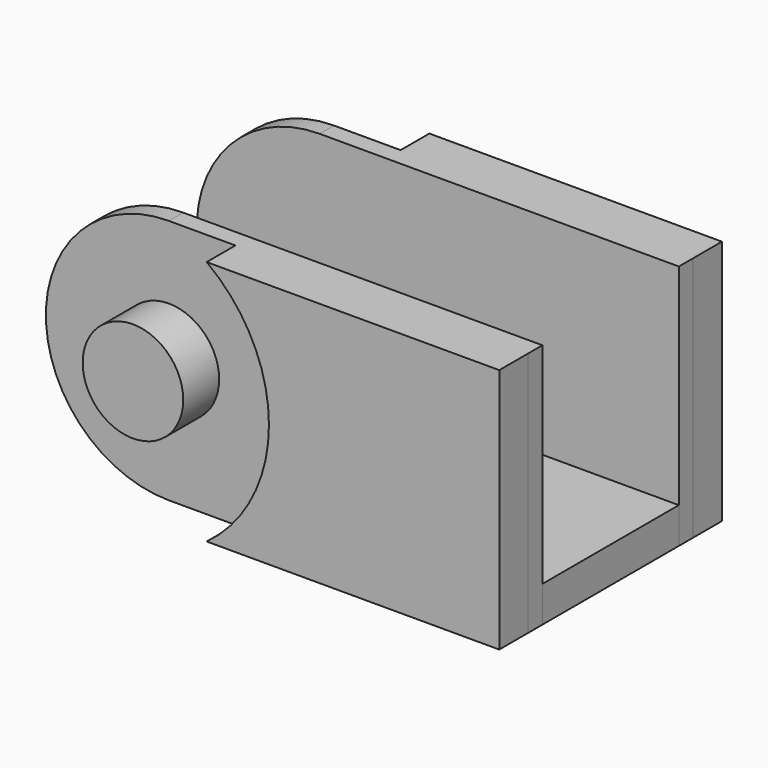
from build123d import *

# Parameters (mm, degrees)
PAD_DEPTH    = 1
SKETCH001_R  = 2.8
PAD001_DEPTH = 2.5
PAD002_DEPTH = 2
BOX_W        = 14
BOX_H        = 15.5
BOX_DEPTH    = 2


with BuildPart() as pad002:
    # Sketch → Pad (new body)
    with BuildSketch(Plane.XZ):
        with BuildLine():
            Line((-8.098338, 6.85), (11.901662, 6.85))
            Line((11.901662, 6.85), (11.901662, -6.85))
            Line((11.901662, -6.85), (-8.098338, -6.85))
            ThreePointArc((-8.098338, 6.85), (-14.94833, 0), (-8.098338, -6.85))
        make_face()
    extrude(amount=PAD_DEPTH)

    # Sketch001 → Pad001 (new body)
    with BuildSketch(Plane.XZ.offset(1)):
        with Locations((-8.09833, 0)):
            Circle(SKETCH001_R)
    extrude(amount=PAD001_DEPTH)

    # Sketch002 → Pad002 (new body)
    with BuildSketch(Plane.XZ.offset(1)):
        with BuildLine():
            Line((-4.392837, 6.85), (11.900914, 6.85))
            Line((11.900914, 6.85), (11.900914, -6.85))
            Line((11.900914, -6.85), (-4.392837, -6.85))
            ThreePointArc((-4.392837, -6.85), (-0.92548, 0), (-4.392837, 6.85))
        make_face()
    extrude(amount=PAD002_DEPTH)


with BuildPart() as part_mirroring:
    # Part__Mirroring: instance of Pad002
    add(pad002.part.mirror(Plane(origin=(0, 4.75, 0), x_dir=(1, 0, 0), z_dir=(0, 1, 0))))


with BuildPart() as fusion:
    # Box → Box (new body)
    with BuildSketch(Plane(origin=(-2.1, -3, -6.85), x_dir=(1, 0, 0), z_dir=(0, 0, 1))):
        with Locations((7, 7.75)):
            Rectangle(BOX_W, BOX_H)
    extrude(amount=BOX_DEPTH)

    # Fusion: union Pad002, Part__Mirroring
    add(pad002.part)
    add(part_mirroring.part)


solid = fusion.part
